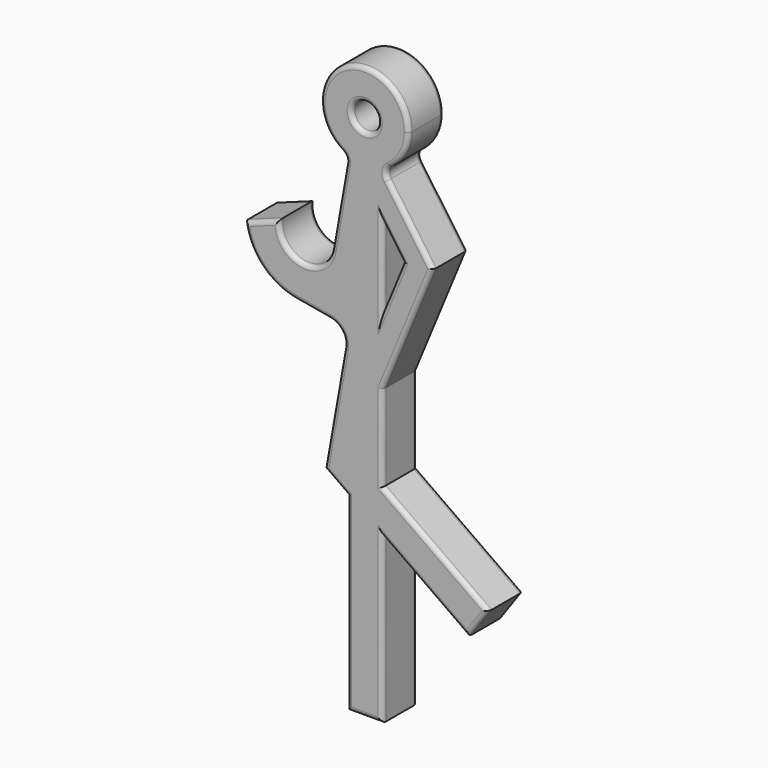
from build123d import *

# Parameters (mm, degrees)
F0_R     = 1.5
F1_DEPTH = 5
F2_R     = 2
F3_R     = 1
F4_R     = 0.5


with BuildPart() as f1:
    # F0 (on Front) → F1 (new body)
    with BuildSketch(Plane.XZ):
        with BuildLine():
            ThreePointArc((2, -4.582575695), (4.1833001327, -2.7386127875), (5, 0))
            ThreePointArc((5, 0), (-2.7386127875, 4.1833001327), (-2, -4.582575695))
            ThreePointArc((-2, -4.582575695), (0, -5), (2, -4.582575695))
        make_face()
        Circle(F0_R, mode=Mode.SUBTRACT)
        with BuildLine():
            Line((-2, -21.844828097), (-2, -4.582575695))
            Line((-2, -4.582575695), (-3.7364817767, -14.4306532251))
            ThreePointArc((-3.7364817767, -14.4306532251), (-7.2118495687, -16.8641319511), (-9.6453282947, -13.3887641591))
            Line((-9.6453282947, -13.3887641591), (-13.6289869126, -14.8386973194))
            ThreePointArc((-13.6289869126, -14.8386973194), (-11.7421113521, -18.7558736448), (-7.9064422794, -20.8033629632))
            Line((-7.9064422794, -20.8033629632), (-2, -21.844828097))
        make_face()
        with BuildLine():
            ThreePointArc((2, -4.582575695), (0, -5), (-2, -4.582575695))
            Line((-2, -4.582575695), (-2, -21.844828097))
            Line((-2, -21.844828097), (-2, -38.4583802631))
            Line((-2, -38.4583802631), (2, -41.2862220071))
            Line((2, -41.2862220071), (2, -36.387580468))
            Line((2, -36.387580468), (2, -26.6341469013))
            Line((2, -26.6341469013), (2, -18.788636321))
            Line((2, -18.788636321), (2, -9.8129160818))
            Line((2, -9.8129160818), (2, -4.582575695))
        make_face()
        Polygon((7.7357643635, -12.7740961378), (2, -4.582575695), (2, -9.8129160818), (4.3346461712, -13.1471363576), (2, -18.788636321), (2, -26.6341469013), align=None)
        Polygon((-2, -38.4583802631), (-2, -21.844828097), (-4.604722665, -36.6169443922), align=None)
        Polygon((2, -36.387580468), (2, -41.2862220071), (11.7263355193, -48.1623564065), (14.0354179222, -44.8961447697), align=None)
        Polygon((2, -41.2862220071), (-2, -38.4583802631), (-2, -60), (2, -60), align=None)
    extrude(amount=F1_DEPTH)

    # F2
    f2_edges = [f1.edges().sort_by_distance(p)[0] for p in [
        (-2, -2.5, -21.844828),
    ]]
    fillet(f2_edges, radius=F2_R)

    # F3
    f3_edges = [f1.edges().sort_by_distance(p)[0] for p in [
        (-2, -2.5, -4.582576),
        (2, -2.5, -4.582576),
    ]]
    fillet(f3_edges, radius=F3_R)

    # F4
    f4_edges = [f1.edges().sort_by_distance(p)[0] for p in [
        (-2.931804, -5, -9.8671),
        (-2.201099, -5, -4.717129),
        (-7.21185, -5, -16.864132),
        (-0.168039, -5, 4.997175),
        (-11.637158, -5, -14.113731),
        (2.46457, -5, -4.736418),
        (-11.742111, -5, -18.755874),
        (5.183066, -5, -9.128465),
        (-5.938029, -5, -21.150447),
        (4.867882, -5, -19.704122),
        (-2.678608, -5, -22.319994),
        (2, -5, -31.510864),
        (-3.47601, -5, -30.215694),
        (8.017709, -5, -40.641863),
        (-3.302361, -5, -37.537662),
        (12.880877, -5, -46.529251),
        (-2, -5, -49.22919),
        (6.863168, -5, -44.724289),
        (0, -5, -60),
        (2, -5, -50.643111),
        (2, -5, -14.300776),
        (3.167323, -5, -11.480026),
        (3.167323, -5, -15.967886),
        (-1.5, -5, 0),
        (-2.931804, 0, -9.8671),
        (-2.201099, 0, -4.717129),
        (-7.21185, 0, -16.864132),
        (-0.168039, 0, 4.997175),
        (-11.637158, 0, -14.113731),
        (2.46457, 0, -4.736418),
        (-11.742111, 0, -18.755874),
        (5.183066, 0, -9.128465),
        (-5.938029, 0, -21.150447),
        (4.867882, 0, -19.704122),
        (-2.678608, 0, -22.319994),
        (2, 0, -31.510864),
        (-3.47601, 0, -30.215694),
        (8.017709, 0, -40.641863),
        (-3.302361, 0, -37.537662),
        (12.880877, 0, -46.529251),
        (-2, 0, -49.22919),
        (6.863168, 0, -44.724289),
        (0, 0, -60),
        (2, 0, -50.643111),
        (2, 0, -14.300776),
        (3.167323, 0, -11.480026),
        (3.167323, 0, -15.967886),
        (-1.5, 0, 0),
    ]]
    fillet(f4_edges, radius=F4_R)


solid = f1.part
